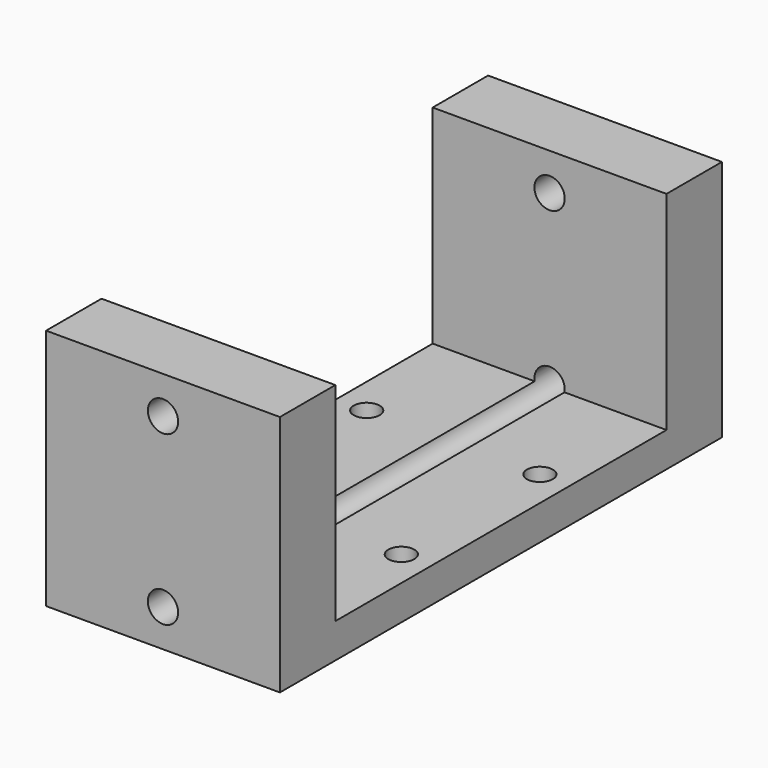
from build123d import *

# Parameters (mm, degrees)
F1_W     = 27
F1_H     = 43.8
F1_R     = 1.5
F1_H_2   = 10
F2_DEPTH = 28
F3_R     = 1.75
F4_DEPTH = 63.801
F5_W     = 47.8
F5_H     = 24
F6_DEPTH = 27.001


with BuildPart() as f2:
    # F1 (on Top) → F2 (new body)
    with BuildSketch(Plane.XY):
        Rectangle(F1_W, F1_H)
        with Locations((-10, -10)):
            Circle(F1_R, mode=Mode.SUBTRACT)
        with Locations((10, -10)):
            Circle(F1_R, mode=Mode.SUBTRACT)
        with Locations((-10, 10)):
            Circle(F1_R, mode=Mode.SUBTRACT)
        with Locations((10, 10)):
            Circle(F1_R, mode=Mode.SUBTRACT)
        with Locations((0, 26.9)):
            Rectangle(F1_W, F1_H_2)
        with Locations((0, -26.9)):
            Rectangle(F1_W, F1_H_2)
    extrude(amount=F2_DEPTH)

    # F3 (on face) → F4 (cut, through all)
    with BuildSketch(Plane(origin=(0, 31.9, 0), x_dir=(-1, 0, 0), z_dir=(0, 1, 0))):
        with Locations((0, 23.697)):
            Circle(F3_R)
        with Locations((0, 4.302)):
            Circle(F3_R)
    extrude(amount=-F4_DEPTH, mode=Mode.SUBTRACT)

    # F5 (on face) → F6 (cut, through all)
    with BuildSketch(Plane(origin=(-13.5, 0, 0), x_dir=(0, -1, 0), z_dir=(-1, 0, 0))):
        with Locations((0, 16)):
            Rectangle(F5_W, F5_H)
    extrude(amount=-F6_DEPTH, mode=Mode.SUBTRACT)


solid = f2.part
